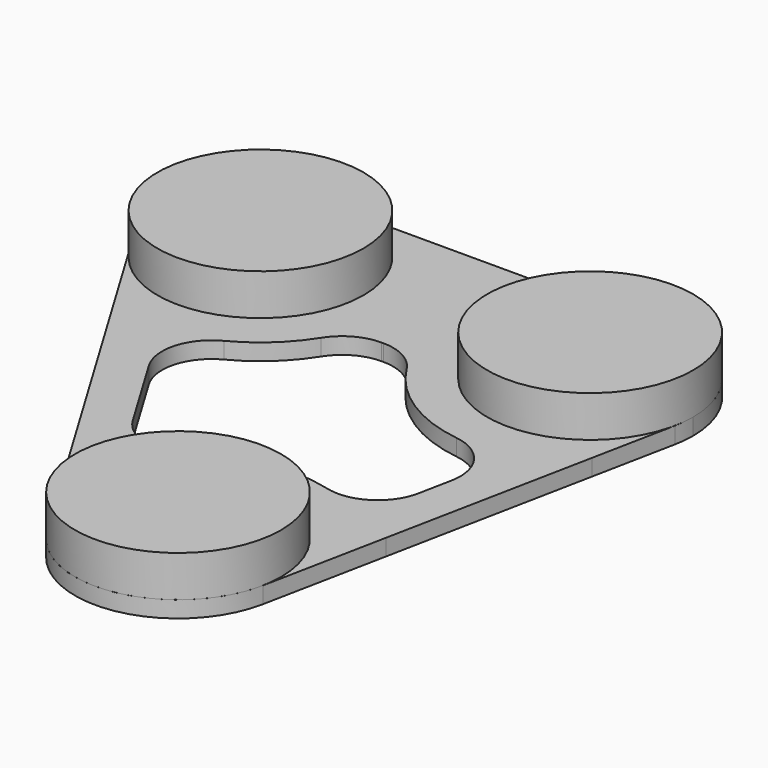
from build123d import *

# Parameters (mm, degrees)
F0_R     = 4
F1_DEPTH = 2
F2_R     = 12.5
F3_DEPTH = 5
F5_DEPTH = 25


with BuildPart() as f1:
    # F0 (on Top) → F1 (new body)
    with BuildSketch(Plane.XY):
        with BuildLine():
            ThreePointArc((-20, 7.5), (-11.1611652352, 11.1611652352), (-7.5, 20))
            ThreePointArc((-7.5, 20), (-11.1611652352, 28.8388347648), (-20, 32.5))
            ThreePointArc((-20, 32.5), (-30.8774988344, 26.1587351873), (-30.7186615714, 13.5688030572))
            ThreePointArc((-30.7186615714, 13.5688030572), (-26.1587351873, 9.1225011656), (-20, 7.5))
        make_face()
        with Locations((-20, 20)):
            Circle(F0_R, mode=Mode.SUBTRACT)
        with BuildLine():
            ThreePointArc((32.5, 20), (28.8388347648, 28.8388347648), (20, 32.5))
            ThreePointArc((20, 32.5), (7.5, 20), (20, 7.5))
            ThreePointArc((20, 7.5), (27.9248613201, 10.3332232333), (32.2572584461, 17.5485483108))
            ThreePointArc((32.2572584461, 17.5485483108), (32.4391665834, 18.7682797754), (32.5, 20))
        make_face()
        with Locations((20, 20)):
            Circle(F0_R, mode=Mode.SUBTRACT)
        with BuildLine():
            ThreePointArc((-20, 32.5), (-11.1611652352, 28.8388347648), (-7.5, 20))
            ThreePointArc((-7.5, 20), (-11.1611652352, 11.1611652352), (-20, 7.5))
            Line((-20, 7.5), (20, 7.5))
            ThreePointArc((20, 7.5), (7.5, 20), (20, 32.5))
            Line((20, 32.5), (-20, 32.5))
        make_face()
        with BuildLine():
            ThreePointArc((32.2572584461, 17.5485483108), (27.9248613201, 10.3332232333), (20, 7.5))
            Line((20, 7.5), (30.247548784, 7.5))
            Line((30.247548784, 7.5), (32.2572584461, 17.5485483108))
        make_face()
        with BuildLine():
            Line((-27.0773797371, 7.5), (-20, 7.5))
            ThreePointArc((-20, 7.5), (-26.1587351873, 9.1225011656), (-30.7186615714, 13.5688030572))
            Line((-30.7186615714, 13.5688030572), (-27.0773797371, 7.5))
        make_face()
        Polygon((20, 7.5), (-20, 7.5), (-27.0773797371, 7.5), (-12.0773797371, -17.5), (9.9999999816, -17.5), (25.247548784, -17.5), (30.247548784, 7.5), align=None)
        with BuildLine():
            Line((-10.9942431227, -9.5869745326), (-13.702940576, -5.0724787771))
            ThreePointArc((-13.702940576, -5.0724787771), (-13.7664754812, -0.0365059251), (-9.4154759474, 2.5))
            Line((-9.4154759474, 2.5), (18.0495097568, 2.5))
            ThreePointArc((18.0495097568, 2.5), (21.9162204635, 0.669944528), (22.9524131353, -3.4805806757))
            Line((22.9524131353, -3.4805806757), (22.1131899082, -7.6766968108))
            ThreePointArc((22.1131899082, -7.6766968108), (20.0336392877, -11.140052848), (16.2297058541, -12.5))
            Line((16.2297058541, -12.5), (-5.8492855685, -12.5))
            ThreePointArc((-5.8492855685, -12.5), (-8.8054784584, -11.7211994405), (-10.9942431227, -9.5869745326))
        make_face(mode=Mode.SUBTRACT)
        with BuildLine():
            Line((25.247548784, -17.5), (9.9999999816, -17.5))
            ThreePointArc((9.9999999816, -17.5), (18.8388347583, -21.1611652286), (22.5, -30))
            ThreePointArc((22.5, -30), (22.4391665834, -31.2317202246), (22.2572584461, -32.4514516892))
            Line((22.2572584461, -32.4514516892), (25.247548784, -17.5))
        make_face()
        with BuildLine():
            Line((9.9999999816, -17.5), (-12.0773797371, -17.5))
            Line((-12.0773797371, -17.5), (-0.7186615714, -36.4311969428))
            ThreePointArc((-0.7186615714, -36.4311969428), (-0.877498839, -23.8412648207), (9.9999999816, -17.5))
        make_face()
        with BuildLine():
            ThreePointArc((9.9999999816, -17.5), (-0.877498839, -23.8412648207), (-0.7186615714, -36.4311969428))
            ThreePointArc((-0.7186615714, -36.4311969428), (12.1334041241, -42.3165980223), (22.2572584461, -32.4514516892))
            ThreePointArc((22.2572584461, -32.4514516892), (22.4391665834, -31.2317202246), (22.5, -30))
            ThreePointArc((22.5, -30), (18.8388347583, -21.1611652286), (9.9999999816, -17.5))
        make_face()
        with Locations((10, -30)):
            Circle(F0_R, mode=Mode.SUBTRACT)
        with BuildLine():
            ThreePointArc((-9.4154759474, 2.5), (-13.7664754812, -0.0365059251), (-13.702940576, -5.0724787771))
            Line((-13.702940576, -5.0724787771), (-10.9942431227, -9.5869745326))
            ThreePointArc((-10.9942431227, -9.5869745326), (-8.8054784584, -11.7211994405), (-5.8492855685, -12.5))
            Line((-5.8492855685, -12.5), (16.2297058541, -12.5))
            ThreePointArc((16.2297058541, -12.5), (20.0336392877, -11.140052848), (22.1131899082, -7.6766968108))
            Line((22.1131899082, -7.6766968108), (22.9524131353, -3.4805806757))
            ThreePointArc((22.9524131353, -3.4805806757), (21.9162204635, 0.669944528), (18.0495097568, 2.5))
            Line((18.0495097568, 2.5), (-9.4154759474, 2.5))
        make_face()
    extrude(amount=F1_DEPTH)

    # F4 (on face) → F5 (cut)
    with BuildSketch(Plane.XY.offset(2)):
        with BuildLine():
            ThreePointArc((-5.1810381708, 10.6914893617), (-8.1581373683, 7.1151139155), (-11.9725222189, 4.4497716906))
            ThreePointArc((-11.9725222189, 4.4497716906), (-14.9916642184, 0.7586032448), (-14.3652016768, -3.9687096909))
            Line((-14.3652016768, -3.9687096909), (-8.4971916928, -13.7487263309))
            ThreePointArc((-8.4971916928, -13.7487263309), (-4.620839122, -16.5261052491), (0.0568469181, -15.5991768711))
            ThreePointArc((0.0568469181, -15.5991768711), (7.0132343369, -12.7567627496), (14.5203632426, -13.0938970737))
            ThreePointArc((14.5203632426, -13.0938970737), (19.2372960285, -12.3935483475), (21.9536861227, -8.4742157383))
            Line((21.9536861227, -8.4742157383), (22.7550240126, -4.4675262887))
            ThreePointArc((22.7550240126, -4.4675262887), (21.7550226215, 0.1950846175), (17.6702957138, 2.6557652824))
            ThreePointArc((17.6702957138, 2.6557652824), (10.5309766737, 5.2830846559), (5.1810381708, 10.6914893617))
            ThreePointArc((5.1810381708, 10.6914893617), (3.0029279389, 12.7511396939), (0.1002512579, 13.5))
            Line((0.1002512579, 13.5), (-0.1002512579, 13.5))
            ThreePointArc((-0.1002512579, 13.5), (-3.0029279389, 12.7511396939), (-5.1810381708, 10.6914893617))
        make_face()
    extrude(amount=-F5_DEPTH, mode=Mode.SUBTRACT)


with BuildPart() as f3:
    # F2 (on face) → F3 (new body)
    with BuildSketch(Plane.XY.offset(2)):
        with Locations((-20, 20)):
            Circle(F2_R)
    extrude(amount=F3_DEPTH)


with BuildPart() as f3b:
    # F2 (on face) → F3, piece 2 (new body)
    with BuildSketch(Plane.XY.offset(2)):
        with Locations((20, 20)):
            Circle(F2_R)
    extrude(amount=F3_DEPTH)


with BuildPart() as f3c:
    # F2 (on face) → F3, piece 3 (new body)
    with BuildSketch(Plane.XY.offset(2)):
        with Locations((10, -30)):
            Circle(F2_R)
    extrude(amount=F3_DEPTH)


solid = Compound([f1.part, f3.part, f3b.part, f3c.part])
